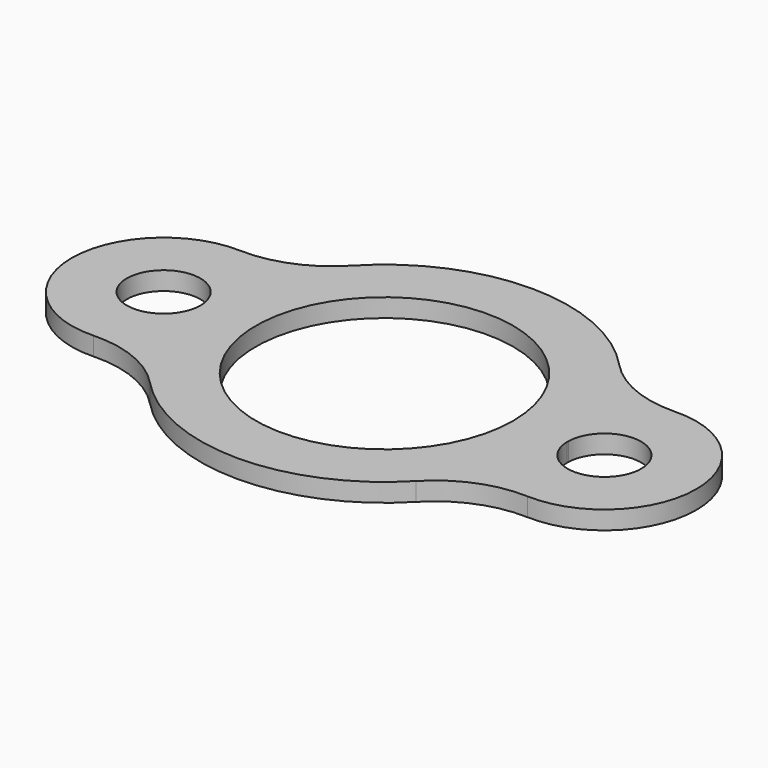
from build123d import *

# Parameters (mm, degrees)
F0_R     = 44.447525
F1_DEPTH = 6.35


with BuildPart() as f1:
    # F0 (on Top) → F1 (new body)
    with BuildSketch(Plane.XY):
        with BuildLine():
            ThreePointArc((-46.200479, 43.563353), (-59.397386, 34.478057), (-75.162591, 31.621608))
            ThreePointArc((-75.162591, 31.621608), (-107.94741, -0.157992), (-75.069706, -31.841488))
            ThreePointArc((-75.069706, -31.841488), (-59.296208, -34.651777), (-46.072763, -43.698404))
            ThreePointArc((-46.072763, -43.698404), (-0.083012, -63.499946), (45.958353, -43.818715))
            ThreePointArc((45.958353, -43.818715), (59.205406, -34.806692), (74.986198, -32.037654))
            ThreePointArc((74.986198, -32.037654), (107.946628, -0.440227), (75.24501, 31.424983))
            ThreePointArc((75.24501, 31.424983), (59.487328, 34.322641), (46.31422, 43.44241))
            ThreePointArc((46.31422, 43.44241), (0.083012, 63.499946), (-46.200479, 43.563353))
        make_face()
        with BuildLine():
            ThreePointArc((-63.499185, -0.321792), (-88.89743, -0.13011), (-63.499855, 0.135916))
            ThreePointArc((-63.499855, 0.135916), (-63.498047, 0.012202), (-63.497444, -0.111523))
            ThreePointArc((-63.497444, -0.111523), (-63.497879, -0.216661), (-63.499185, -0.321792))
        make_face(mode=Mode.SUBTRACT)
        with BuildLine():
            ThreePointArc((63.499993, -0.030109), (76.337219, 12.388479), (88.896892, -0.310745))
            ThreePointArc((88.896892, -0.310745), (76.285428, -13.010437), (63.498126, -0.487813))
            ThreePointArc((63.498126, -0.487813), (63.496997, -0.258953), (63.499993, -0.030109))
        make_face(mode=Mode.SUBTRACT)
        Circle(F0_R, mode=Mode.SUBTRACT)
    extrude(amount=F1_DEPTH)


solid = f1.part
